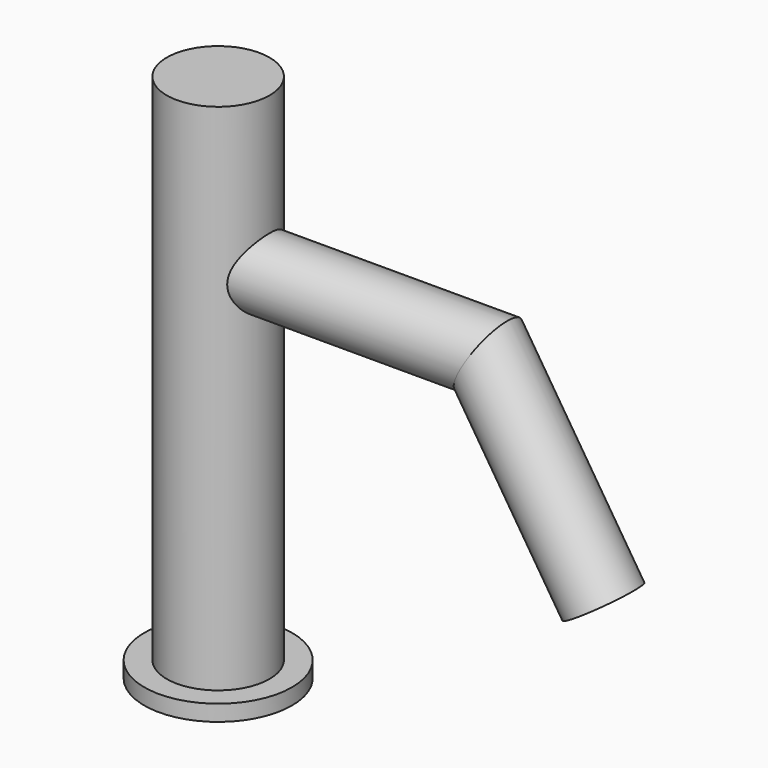
from build123d import *

# Parameters (mm, degrees)
F0_R     = 16
F1_DEPTH = 165
F4_R     = 11
F7_R     = 23
F8_DEPTH = 5


with BuildPart() as f1:
    # F0 (on Top) → F1 (new body)
    with BuildSketch(Plane.XY):
        Circle(F0_R)
    extrude(amount=F1_DEPTH)

    # F6: sweep along a path in F5
    with BuildLine(Plane.XZ) as f6_path:
        Line((0, 116.2202451894), (83.9946197184, 116.2202451894))
        Line((83.9946197184, 116.2202451894), (120, 60))
    # F4 (on Right) → F6 (sweep)
    with BuildSketch(Plane.YZ):
        with Locations((0, 116.2202451894)):
            Circle(F4_R)
    sweep(path=f6_path.line, transition=Transition.RIGHT)

    # F7 (on Top) → F8 (join)
    with BuildSketch(Plane.XY):
        Circle(F7_R)
    extrude(amount=F8_DEPTH)


solid = f1.part
